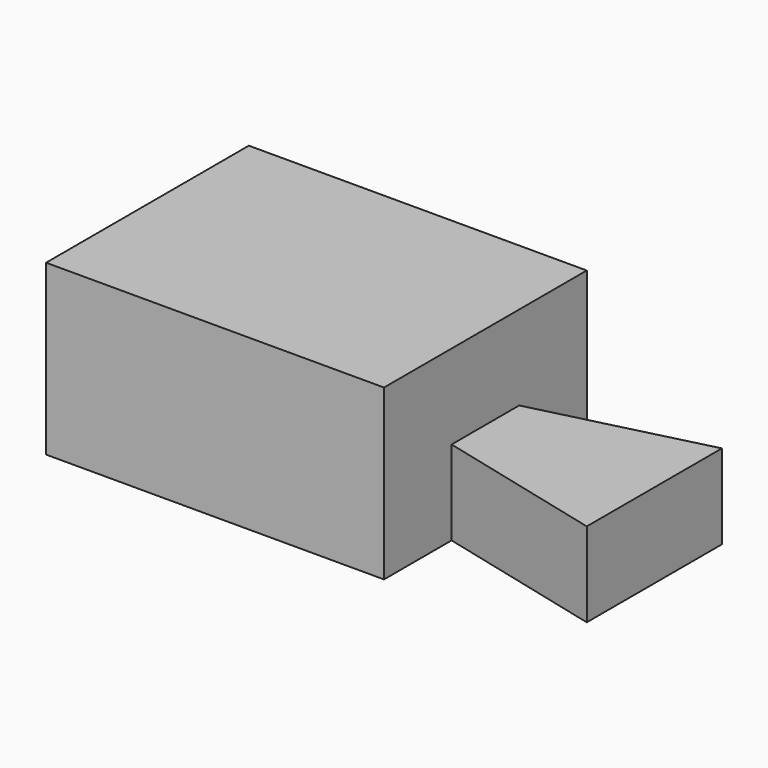
from build123d import *

# Parameters (mm, degrees)
F0_W     = 101.6
F0_H     = 50.8
F1_DEPTH = 76.2
F3_DEPTH = 25.4


with BuildPart() as f1:
    # F0 (on Front) → F1 (new body)
    with BuildSketch(Plane.XZ):
        with Locations((-20.575825, -13.165971)):
            Rectangle(F0_W, F0_H)
    extrude(amount=F1_DEPTH)

    # F2 (on face) → F3 (join)
    with BuildSketch(Plane(origin=(0, 0, -38.565971), x_dir=(1, 0, 0), z_dir=(0, 0, -1))):
        Polygon((81.024175, 63.5), (30.224175, 50.8), (30.224175, 25.4), (81.024175, 12.7), align=None)
    extrude(amount=-F3_DEPTH)


solid = f1.part
